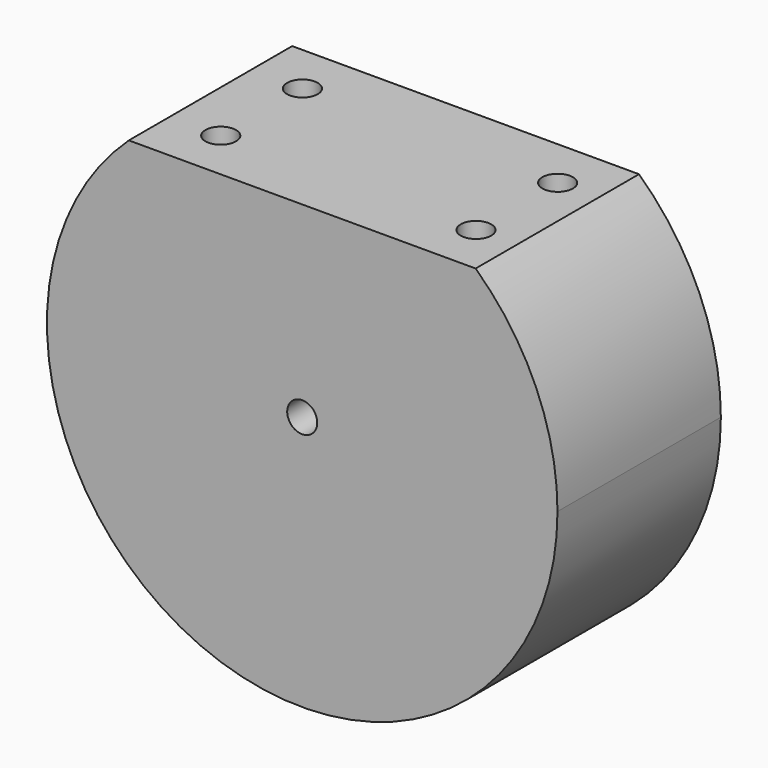
from build123d import *

# Parameters (mm, degrees)
F1_DEPTH = 25.4
F2_R     = 1.905
F3_DEPTH = 12.7
F4_R     = 1.868451
F5_DEPTH = 25.4


with BuildPart() as f1:
    # F0 (on Front) → F1 (new body)
    with BuildSketch(Plane.XZ):
        with BuildLine():
            ThreePointArc((-21.568069, 23.299805), (-12.713699, -29.093373), (31.75, 0))
            ThreePointArc((31.75, 0), (29.093373, 12.713699), (21.568069, 23.299805))
            Line((21.568069, 23.299805), (-21.568069, 23.299805))
        make_face()
    extrude(amount=F1_DEPTH)

    # F2 (on face) → F3 (cut)
    with BuildSketch(Plane.XY.offset(23.299805)):
        with Locations((-15.218069, -6.35)):
            Circle(F2_R)
        with Locations((-15.218069, -19.05)):
            Circle(F2_R)
        with Locations((16.531931, -19.05)):
            Circle(F2_R)
        with Locations((16.531931, -6.35)):
            Circle(F2_R)
    extrude(amount=-F3_DEPTH, mode=Mode.SUBTRACT)

    # F4 (on face) → F5 (cut)
    with BuildSketch(Plane.XZ.offset(25.4)):
        Circle(F4_R)
    extrude(amount=-F5_DEPTH, mode=Mode.SUBTRACT)


solid = f1.part
